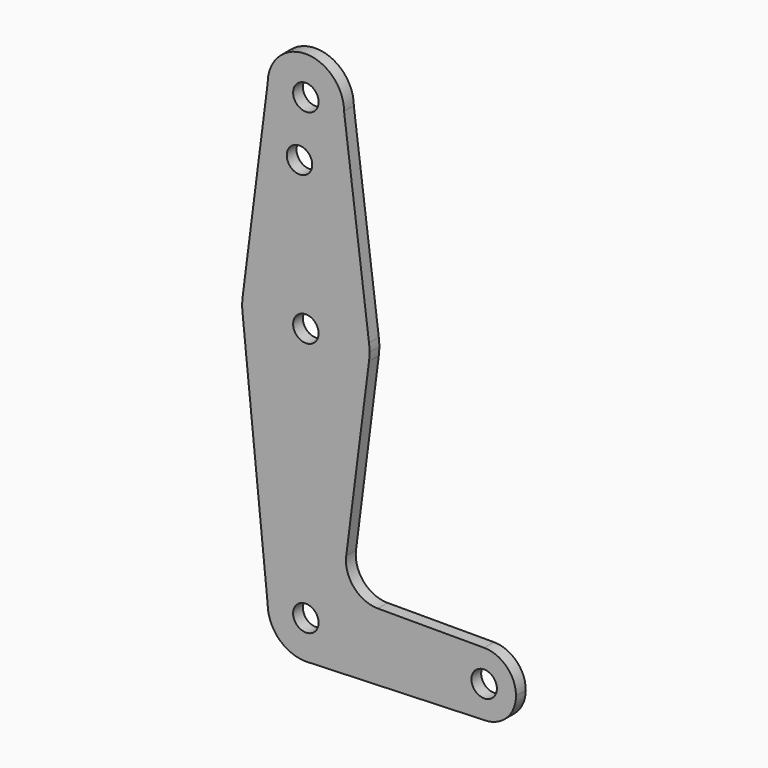
from build123d import *

# Parameters (mm, degrees)
F0_R     = 3.175
F1_DEPTH = 3.048


with BuildPart() as f1:
    # F0 (on Front) → F1 (new body)
    with BuildSketch(Plane.XZ):
        with BuildLine():
            ThreePointArc((-9.525, 114.3), (0, 104.775), (9.525, 114.3))
            ThreePointArc((9.525, 114.3), (0, 123.825), (-9.525, 114.3))
        make_face()
        with Locations((0, 114.3)):
            Circle(F0_R, mode=Mode.SUBTRACT)
        with BuildLine():
            Line((15.747457, 65.508289), (9.525, 114.3))
            ThreePointArc((9.525, 114.3), (0, 104.775), (-9.525, 114.3))
            Line((-9.525, 114.3), (-15.747457, 65.508289))
            ThreePointArc((-15.747457, 65.508289), (0, 79.375), (15.747457, 65.508289))
        make_face()
        with Locations((-1.5875, 100.0252)):
            Circle(F0_R, mode=Mode.SUBTRACT)
        with BuildLine():
            ThreePointArc((15.875, 63.5), (15.843082, 64.506168), (15.747457, 65.508289))
            ThreePointArc((15.747457, 65.508289), (0, 79.375), (-15.747457, 65.508289))
            ThreePointArc((-15.747457, 65.508289), (-15.875, 63.5), (-15.747457, 61.491711))
            ThreePointArc((-15.747457, 61.491711), (0, 47.625), (15.747457, 61.491711))
            ThreePointArc((15.747457, 61.491711), (15.843082, 62.493832), (15.875, 63.5))
        make_face()
        with Locations((0, 63.5)):
            Circle(F0_R, mode=Mode.SUBTRACT)
        with BuildLine():
            ThreePointArc((15.747457, 61.491711), (0, 47.625), (-15.747457, 61.491711))
            Line((-15.747457, 61.491711), (-9.525, 0))
            ThreePointArc((-9.525, 0), (0, 9.525), (9.525, 0))
            ThreePointArc((9.525, 0), (6.97129, -6.490511), (0.67949, -9.500732))
            Line((0.67949, -9.500732), (44.45, -7.9375))
            ThreePointArc((44.45, -7.9375), (36.5125, 0), (44.45, 7.9375))
            Line((44.45, 7.9375), (17.946122, 7.9375))
            ThreePointArc((17.946122, 7.9375), (11.979481, 10.633666), (10.059795, 16.893451))
            Line((10.059795, 16.893451), (15.747457, 61.491711))
        make_face()
        with BuildLine():
            ThreePointArc((9.525, 0), (0, 9.525), (-9.525, 0))
            ThreePointArc((-9.525, 0), (-6.735192, -6.735192), (0, -9.525))
            Line((0, -9.525), (0.67949, -9.500732))
            ThreePointArc((0.67949, -9.500732), (6.97129, -6.490511), (9.525, 0))
        make_face()
        Circle(F0_R, mode=Mode.SUBTRACT)
        with BuildLine():
            Line((0.67949, -9.500732), (0, -9.525))
            ThreePointArc((0, -9.525), (0.339962, -9.518931), (0.67949, -9.500732))
        make_face()
        with BuildLine():
            ThreePointArc((52.3875, 0), (50.06266, 5.61266), (44.45, 7.9375))
            ThreePointArc((44.45, 7.9375), (36.5125, 0), (44.45, -7.9375))
            ThreePointArc((44.45, -7.9375), (50.06266, -5.61266), (52.3875, 0))
        make_face()
        with Locations((44.45, 0)):
            Circle(F0_R, mode=Mode.SUBTRACT)
    extrude(amount=F1_DEPTH)


solid = f1.part
